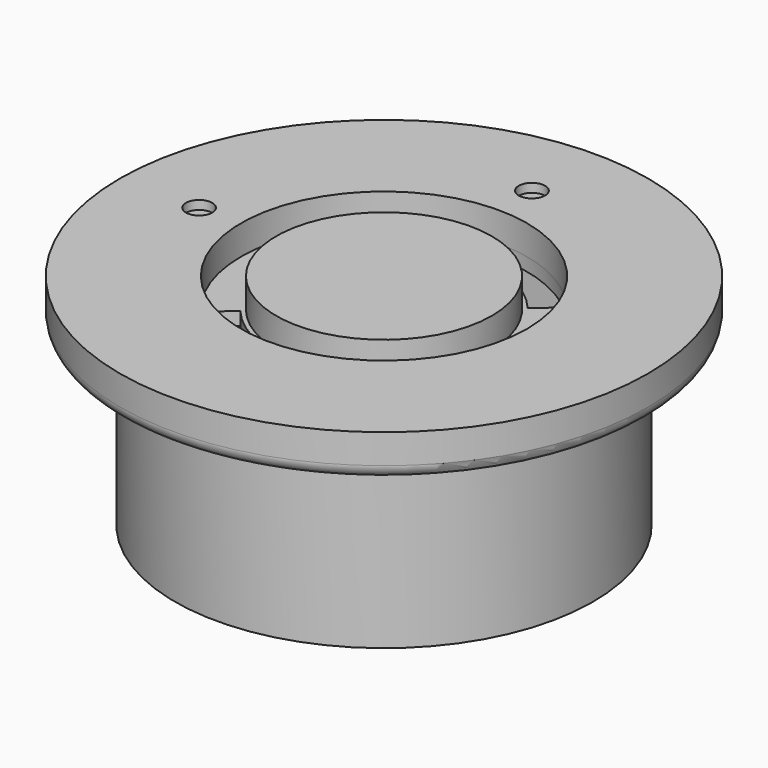
from build123d import *

# Parameters (mm, degrees)
F0_R      = 60
F1_DEPTH  = 9.7
F2_R      = 32.5
F2_R_2    = 24.5
F3_DEPTH  = 6.7
F5_DEPTH  = 3.001
F7_R      = 3
F8_DEPTH  = 2
F10_DEPTH = 40
F11_R     = 3
F12_R     = 5


with BuildPart() as f1:
    # F0 (on Top) → F1 (new body)
    with BuildSketch(Plane.XY):
        Circle(F0_R)
    extrude(amount=F1_DEPTH)

    # F2 (on face) → F3 (cut)
    with BuildSketch(Plane.XY.offset(9.7)):
        Circle(F2_R)
        Circle(F2_R_2, mode=Mode.SUBTRACT)
    extrude(amount=-F3_DEPTH, mode=Mode.SUBTRACT)

    # F4 (on face) → F5 (cut, through all)
    with BuildSketch(Plane.XY.offset(3)):
        with BuildLine():
            Line((-19.5341332995, -16.391084047), (-24.8964444014, -20.8905973148))
            ThreePointArc((-24.8964444014, -20.8905973148), (0, -32.5), (24.8964444014, -20.8905973148))
            Line((24.8964444014, -20.8905973148), (19.5341332995, -16.391084047))
            ThreePointArc((19.5341332995, -16.391084047), (0, -25.5), (-19.5341332995, -16.391084047))
        make_face()
        with BuildLine():
            ThreePointArc((-19.5341332995, 16.391084047), (0, 25.5), (19.5341332995, 16.391084047))
            Line((19.5341332995, 16.391084047), (24.8964444014, 20.8905973148))
            ThreePointArc((24.8964444014, 20.8905973148), (0, 32.5), (-24.8964444014, 20.8905973148))
            Line((-24.8964444014, 20.8905973148), (-19.5341332995, 16.391084047))
        make_face()
    extrude(amount=-F5_DEPTH, mode=Mode.SUBTRACT)

    # F7 (on face) → F8 (cut)
    with BuildSketch(Plane.XY.offset(9.7)):
        with Locations((0, 42)):
            Circle(F7_R)
        with Locations((-42, 0)):
            Circle(F7_R)
    extrude(amount=-F8_DEPTH, mode=Mode.SUBTRACT)

    # F9 (on face) → F10 (join)
    with BuildSketch(Plane(origin=(0, 0, 0), x_dir=(1, 0, 0), z_dir=(0, 0, -1))):
        with BuildLine():
            Line((-28.3399437965, -38.1195171219), (28.3399437965, -38.1195171219))
            ThreePointArc((28.3399437965, -38.1195171219), (0, 47.5), (-28.3399437965, -38.1195171219))
        make_face()
        with BuildLine():
            ThreePointArc((-27.5, -35.6195171219), (0, 45), (27.5, -35.6195171219))
            Line((27.5, -35.6195171219), (-27.5, -35.6195171219))
        make_face(mode=Mode.SUBTRACT)
    extrude(amount=F10_DEPTH)

    # F11
    f11_edges = [f1.edges().sort_by_distance(p)[0] for p in [
        (-60, 0, 0),
    ]]
    fillet(f11_edges, radius=F11_R)

    # F12
    f12_edges = [f1.edges().sort_by_distance(p)[0] for p in [
        (27.5, 35.619517, -20),
        (-27.5, 35.619517, -20),
        (-28.339944, 38.119517, -20),
        (28.339944, 38.119517, -20),
    ]]
    fillet(f12_edges, radius=F12_R)


solid = f1.part
